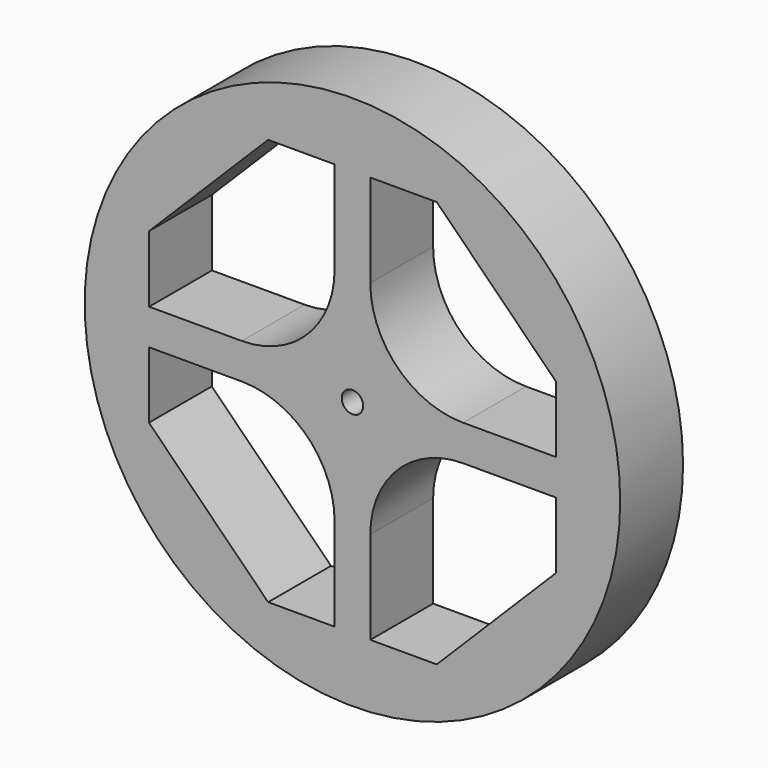
from build123d import *

# Parameters (mm, degrees)
F0_R     = 37.5
F0_R_2   = 1.500821
F1_DEPTH = 11


with BuildPart() as f1:
    # F0 (on Front) → F1 (new body)
    with BuildSketch(Plane.XZ):
        Circle(F0_R)
        with BuildLine():
            Line((-28.472292, -2.5), (-15.499999, -2.500001))
            ThreePointArc((-15.499999, -2.500001), (-6.307613, -6.307613), (-2.500001, -15.499999))
            Line((-2.500001, -15.499999), (-2.500189, -28.5))
            Line((-2.500189, -28.5), (-11.805087, -28.5))
            Line((-11.805087, -28.5), (-28.5, -11.805087))
            Line((-28.5, -11.805087), (-28.472292, -2.5))
        make_face(mode=Mode.SUBTRACT)
        with BuildLine():
            ThreePointArc((2.500001, -15.499999), (6.307613, -6.307612), (15.500001, -2.5))
            Line((15.500001, -2.5), (28.5, -2.5))
            Line((28.5, -2.5), (28.5, -11.805087))
            Line((28.5, -11.805087), (11.805087, -28.5))
            Line((11.805087, -28.5), (2.500189, -28.5))
            Line((2.500189, -28.5), (2.500001, -15.499999))
        make_face(mode=Mode.SUBTRACT)
        with BuildLine():
            ThreePointArc((-2.499999, 15.500001), (-6.307611, 6.307612), (-15.499999, 2.5))
            Line((-15.499999, 2.5), (-28.472292, 2.5))
            Line((-28.472292, 2.5), (-28.5, 11.805087))
            Line((-28.5, 11.805087), (-11.805087, 28.5))
            Line((-11.805087, 28.5), (-2.499811, 28.5))
            Line((-2.499811, 28.5), (-2.499999, 15.500001))
        make_face(mode=Mode.SUBTRACT)
        Circle(F0_R_2, mode=Mode.SUBTRACT)
        with BuildLine():
            Line((28.5, 2.5), (15.500001, 2.5))
            ThreePointArc((15.500001, 2.5), (6.307612, 6.307612), (2.5, 15.500001))
            Line((2.5, 15.500001), (2.499811, 28.5))
            Line((2.499811, 28.5), (11.805087, 28.5))
            Line((11.805087, 28.5), (28.5, 11.805087))
            Line((28.5, 11.805087), (28.5, 2.5))
        make_face(mode=Mode.SUBTRACT)
    extrude(amount=F1_DEPTH)


solid = f1.part
